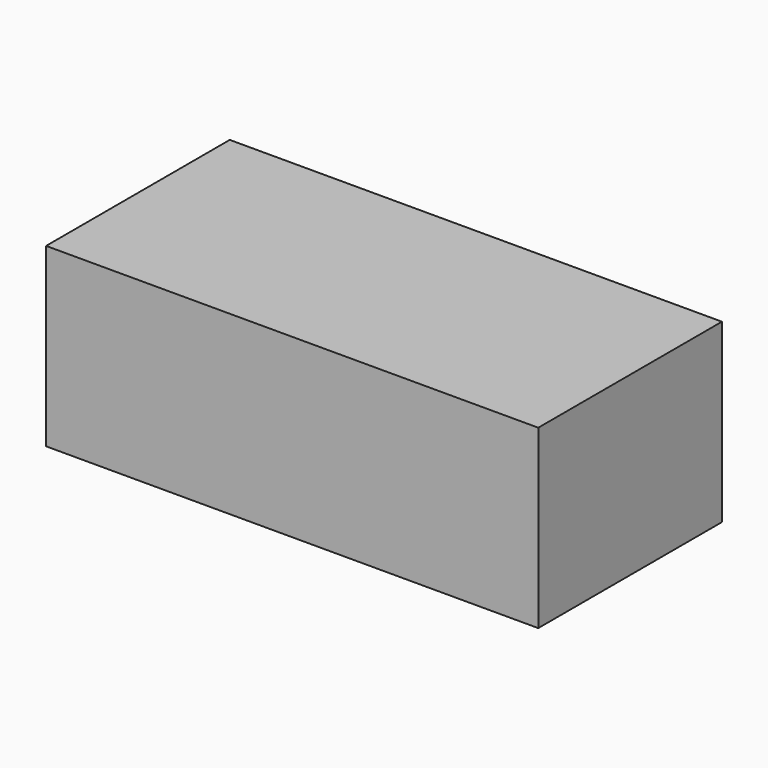
from build123d import *

# Parameters (mm, degrees)
F0_R     = 35.124491
F1_DEPTH = 50.8
F2_W     = 212.551207
F2_H     = 99.146512
F3_DEPTH = 76.2


with BuildPart() as f1:
    # F0 (on Right) → F1 (new body)
    with BuildSketch(Plane.YZ):
        with Locations((0, 37.444387)):
            Circle(F0_R)
    extrude(amount=F1_DEPTH)

    # F2 (on Top) → F3 (join)
    with BuildSketch(Plane.XY):
        with Locations((30.554473, -30.116612)):
            Rectangle(F2_W, F2_H)
    extrude(amount=F3_DEPTH)


solid = f1.part
